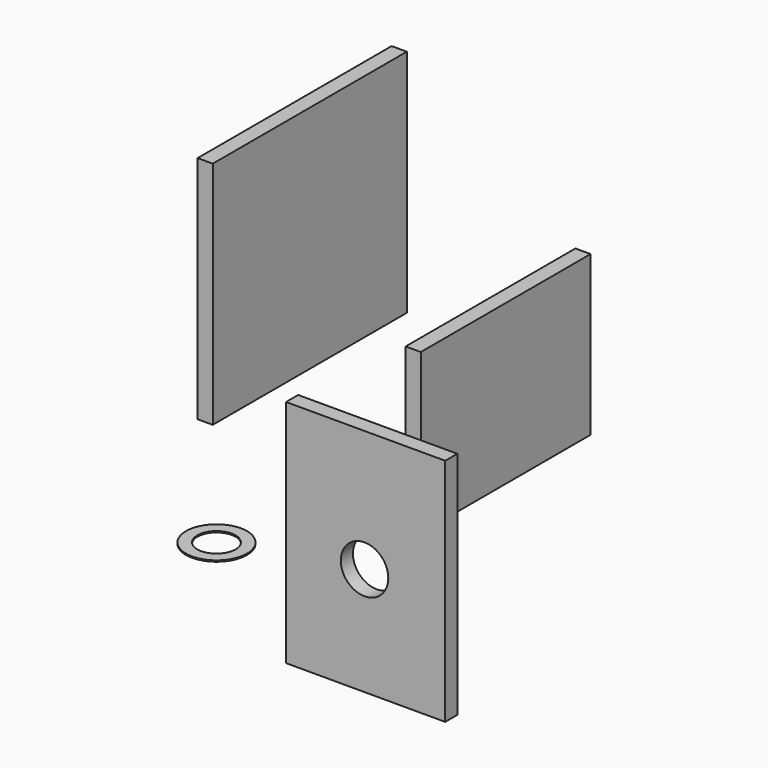
from build123d import *

# Parameters (mm, degrees)
F0_W     = 63
F0_H     = 91
F0_R     = 9.39616
F1_DEPTH = 6
F2_W     = 96
F2_H     = 91
F3_DEPTH = 6
F4_R     = 9.652158
F4_R_2   = 3.653207
F5_DEPTH = 6
F6_W     = 84
F6_H     = 63
F7_DEPTH = 6
F8_R     = 12.074279
F8_R_2   = 7.553901
F9_DEPTH = 0.5


with BuildPart() as f1:
    # F0 (on Front) → F1 (new body)
    with BuildSketch(Plane.XZ):
        with Locations((0.421124, 3.386388)):
            Rectangle(F0_W, F0_H)
        with Locations((-0.004797, 0.676707)):
            Circle(F0_R, mode=Mode.SUBTRACT)
    extrude(amount=F1_DEPTH)


with BuildPart() as f3:
    # F2 (on Right) → F3 (new body)
    with BuildSketch(Plane.YZ):
        with Locations((-40.603922, 132.048147)):
            Rectangle(F2_W, F2_H)
    extrude(amount=F3_DEPTH)


with BuildPart() as f5:
    # F4 (on Top) → F5 (new body)
    with BuildSketch(Plane.XY):
        with Locations((-48.806142, 40.082339)):
            Circle(F4_R)
        with Locations((-48.806142, 40.082339)):
            Circle(F4_R_2, mode=Mode.SUBTRACT)
    extrude(amount=F5_DEPTH)


with BuildPart() as f7:
    # F6 (on Right) → F7 (new body)
    with BuildSketch(Plane.YZ):
        with Locations((56.326499, 38.57775)):
            Rectangle(F6_W, F6_H)
    extrude(amount=F7_DEPTH)


with BuildPart() as f9:
    # F8 (on Top) → F9 (new body)
    with BuildSketch(Plane.XY):
        with Locations((-47.231812, -20.217795)):
            Circle(F8_R)
        with Locations((-47.231812, -20.217795)):
            Circle(F8_R_2, mode=Mode.SUBTRACT)
    extrude(amount=F9_DEPTH)


solid = Compound([f1.part, f3.part, f5.part, f7.part, f9.part])
